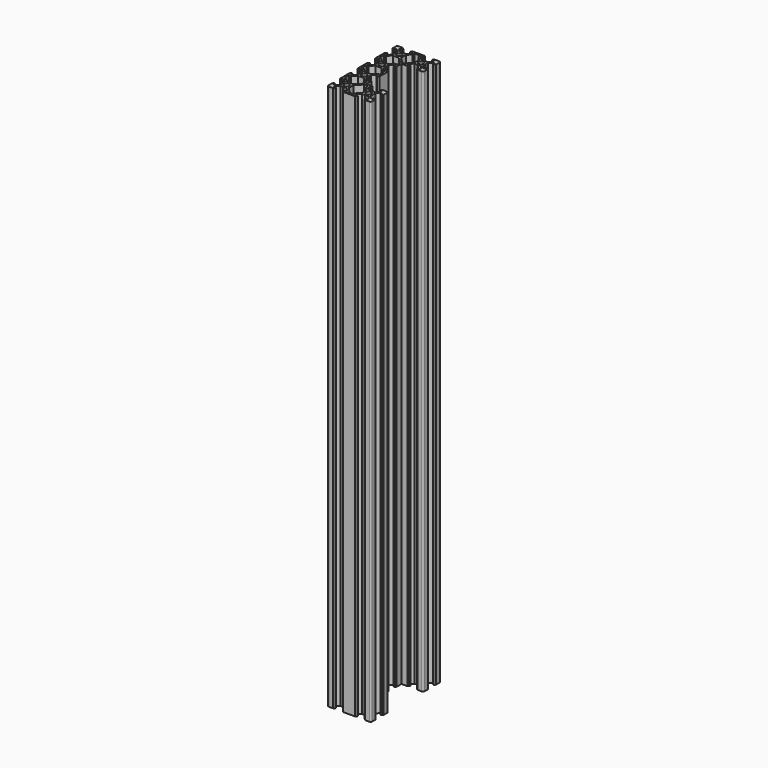
from build123d import *

# Parameters (mm, degrees)
F0_R     = 2.30002
F0_R_2   = 2.300022
F0_R_3   = 2.300012
F1_DEPTH = 500


with BuildPart() as f1:
    # F0 (on Top) → F1 (new body)
    with BuildSketch(Plane.XY):
        with BuildLine():
            Line((-16.476643, -40), (-12.556643, -40))
            Line((-12.556643, -40), (-11.371643, -38.815))
            Line((-11.371643, -38.815), (-11.371643, -38.2))
            Line((-11.371643, -38.2), (-13.476643, -38.2))
            Line((-13.476643, -38.2), (-13.476643, -36.56066))
            Line((-13.476643, -36.56066), (-10.815983, -33.9))
            Line((-10.815983, -33.9), (-8.186643, -33.9))
            Line((-8.186643, -33.9), (-7.976643, -33.69))
            Line((-7.976643, -33.69), (-7.766643, -33.9))
            Line((-7.766643, -33.9), (-5.137304, -33.9))
            Line((-5.137304, -33.9), (-2.476643, -36.56066))
            Line((-2.476643, -36.56066), (-2.476643, -38.2))
            Line((-2.476643, -38.2), (-4.581643, -38.2))
            Line((-4.581643, -38.2), (-4.581643, -38.815))
            Line((-4.581643, -38.815), (-3.396643, -40))
            Line((-3.396643, -40), (7.443357, -40))
            Line((7.443357, -40), (8.628357, -38.815))
            Line((8.628357, -38.815), (8.628357, -38.2))
            Line((8.628357, -38.2), (6.523357, -38.2))
            Line((6.523357, -38.2), (6.523357, -36.56066))
            Line((6.523357, -36.56066), (9.184017, -33.9))
            Line((9.184017, -33.9), (11.813357, -33.9))
            Line((11.813357, -33.9), (12.023357, -33.69))
            Line((12.023357, -33.69), (12.233357, -33.9))
            Line((12.233357, -33.9), (14.862696, -33.9))
            Line((14.862696, -33.9), (17.523357, -36.56066))
            Line((17.523357, -36.56066), (17.523357, -38.2))
            Line((17.523357, -38.2), (15.418357, -38.2))
            Line((15.418357, -38.2), (15.418357, -38.815))
            Line((15.418357, -38.815), (16.603357, -40))
            Line((16.603357, -40), (20.523357, -40))
            ThreePointArc((20.523357, -40), (21.584017, -39.56066), (22.023357, -38.5))
            Line((22.023357, -38.5), (22.023357, -34.58))
            Line((22.023357, -34.58), (20.838357, -33.395))
            Line((20.838357, -33.395), (20.223357, -33.395))
            Line((20.223357, -33.395), (20.223357, -35.5))
            Line((20.223357, -35.5), (18.584017, -35.5))
            Line((18.584017, -35.5), (15.923357, -32.83934))
            Line((15.923357, -32.83934), (15.923357, -30.21))
            Line((15.923357, -30.21), (15.713357, -30))
            Line((15.713357, -30), (15.923357, -29.79))
            Line((15.923357, -29.79), (15.923357, -27.16066))
            Line((15.923357, -27.16066), (18.584017, -24.5))
            Line((18.584017, -24.5), (20.223357, -24.5))
            Line((20.223357, -24.5), (20.223357, -26.605))
            Line((20.223357, -26.605), (20.838357, -26.605))
            Line((20.838357, -26.605), (22.023357, -25.42))
            Line((22.023357, -25.42), (22.023357, -21.5))
            ThreePointArc((22.023357, -21.5), (21.584017, -20.43934), (20.523357, -20))
            Line((20.523357, -20), (16.603357, -20))
            Line((16.603357, -20), (15.418357, -21.185))
            Line((15.418357, -21.185), (15.418357, -21.8))
            Line((15.418357, -21.8), (17.523357, -21.8))
            Line((17.523357, -21.8), (17.523357, -23.43934))
            Line((17.523357, -23.43934), (14.862696, -26.1))
            Line((14.862696, -26.1), (12.233357, -26.1))
            Line((12.233357, -26.1), (12.023357, -26.31))
            Line((12.023357, -26.31), (11.813357, -26.1))
            Line((11.813357, -26.1), (9.184017, -26.1))
            Line((9.184017, -26.1), (6.523357, -23.43934))
            Line((6.523357, -23.43934), (6.523357, -21.8))
            Line((6.523357, -21.8), (8.628357, -21.8))
            Line((8.628357, -21.8), (8.628357, -21.185))
            Line((8.628357, -21.185), (7.443357, -20))
            Line((7.443357, -20), (2.023357, -20))
            Line((2.023357, -20), (2.023357, -14.58))
            Line((2.023357, -14.58), (0.838357, -13.395))
            Line((0.838357, -13.395), (0.223357, -13.395))
            Line((0.223357, -13.395), (0.223357, -15.5))
            Line((0.223357, -15.5), (-1.415983, -15.5))
            Line((-1.415983, -15.5), (-4.076643, -12.83934))
            Line((-4.076643, -12.83934), (-4.076643, -10.21))
            Line((-4.076643, -10.21), (-4.286643, -10))
            Line((-4.286643, -10), (-4.076643, -9.79))
            Line((-4.076643, -9.79), (-4.076643, -7.16066))
            Line((-4.076643, -7.16066), (-1.415983, -4.5))
            Line((-1.415983, -4.5), (0.223357, -4.5))
            Line((0.223357, -4.5), (0.223357, -6.605))
            Line((0.223357, -6.605), (0.838357, -6.605))
            Line((0.838357, -6.605), (2.023357, -5.42))
            Line((2.023357, -5.42), (2.023357, 0))
            Line((2.023357, 0), (2.023357, 5.42))
            Line((2.023357, 5.42), (0.838357, 6.605))
            Line((0.838357, 6.605), (0.223357, 6.605))
            Line((0.223357, 6.605), (0.223357, 4.5))
            Line((0.223357, 4.5), (-1.415983, 4.5))
            Line((-1.415983, 4.5), (-4.076643, 7.16066))
            Line((-4.076643, 7.16066), (-4.076643, 9.79))
            Line((-4.076643, 9.79), (-4.286643, 10))
            Line((-4.286643, 10), (-4.076643, 10.21))
            Line((-4.076643, 10.21), (-4.076643, 12.83934))
            Line((-4.076643, 12.83934), (-1.415983, 15.5))
            Line((-1.415983, 15.5), (0.223357, 15.5))
            Line((0.223357, 15.5), (0.223357, 13.395))
            Line((0.223357, 13.395), (0.838357, 13.395))
            Line((0.838357, 13.395), (2.023357, 14.58))
            Line((2.023357, 14.58), (2.023357, 20))
            Line((2.023357, 20), (7.443357, 20))
            Line((7.443357, 20), (8.628357, 21.185))
            Line((8.628357, 21.185), (8.628357, 21.8))
            Line((8.628357, 21.8), (6.523357, 21.8))
            Line((6.523357, 21.8), (6.523357, 23.43934))
            Line((6.523357, 23.43934), (9.184017, 26.1))
            Line((9.184017, 26.1), (11.813357, 26.1))
            Line((11.813357, 26.1), (12.023357, 26.31))
            Line((12.023357, 26.31), (12.233357, 26.1))
            Line((12.233357, 26.1), (14.862696, 26.1))
            Line((14.862696, 26.1), (17.523357, 23.43934))
            Line((17.523357, 23.43934), (17.523357, 21.8))
            Line((17.523357, 21.8), (15.418357, 21.8))
            Line((15.418357, 21.8), (15.418357, 21.185))
            Line((15.418357, 21.185), (16.603357, 20))
            Line((16.603357, 20), (20.523357, 20))
            ThreePointArc((20.523357, 20), (21.584017, 20.43934), (22.023357, 21.5))
            Line((22.023357, 21.5), (22.023357, 25.42))
            Line((22.023357, 25.42), (20.838357, 26.605))
            Line((20.838357, 26.605), (20.223357, 26.605))
            Line((20.223357, 26.605), (20.223357, 24.5))
            Line((20.223357, 24.5), (18.584017, 24.5))
            Line((18.584017, 24.5), (15.923357, 27.16066))
            Line((15.923357, 27.16066), (15.923357, 29.79))
            Line((15.923357, 29.79), (15.713357, 30))
            Line((15.713357, 30), (15.923357, 30.21))
            Line((15.923357, 30.21), (15.923357, 32.83934))
            Line((15.923357, 32.83934), (18.584017, 35.5))
            Line((18.584017, 35.5), (20.223357, 35.5))
            Line((20.223357, 35.5), (20.223357, 33.395))
            Line((20.223357, 33.395), (20.838357, 33.395))
            Line((20.838357, 33.395), (22.023357, 34.58))
            Line((22.023357, 34.58), (22.023357, 38.5))
            ThreePointArc((22.023357, 38.5), (21.584017, 39.56066), (20.523357, 40))
            Line((20.523357, 40), (16.603357, 40))
            Line((16.603357, 40), (15.418357, 38.815))
            Line((15.418357, 38.815), (15.418357, 38.2))
            Line((15.418357, 38.2), (17.523357, 38.2))
            Line((17.523357, 38.2), (17.523357, 36.56066))
            Line((17.523357, 36.56066), (14.862696, 33.9))
            Line((14.862696, 33.9), (12.233357, 33.9))
            Line((12.233357, 33.9), (12.023357, 33.69))
            Line((12.023357, 33.69), (11.813357, 33.9))
            Line((11.813357, 33.9), (9.184017, 33.9))
            Line((9.184017, 33.9), (6.523357, 36.56066))
            Line((6.523357, 36.56066), (6.523357, 38.2))
            Line((6.523357, 38.2), (8.628357, 38.2))
            Line((8.628357, 38.2), (8.628357, 38.815))
            Line((8.628357, 38.815), (7.443357, 40))
            Line((7.443357, 40), (-3.396643, 40))
            Line((-3.396643, 40), (-4.581643, 38.815))
            Line((-4.581643, 38.815), (-4.581643, 38.2))
            Line((-4.581643, 38.2), (-2.476643, 38.2))
            Line((-2.476643, 38.2), (-2.476643, 36.56066))
            Line((-2.476643, 36.56066), (-5.137304, 33.9))
            Line((-5.137304, 33.9), (-7.766643, 33.9))
            Line((-7.766643, 33.9), (-7.976643, 33.69))
            Line((-7.976643, 33.69), (-8.186643, 33.9))
            Line((-8.186643, 33.9), (-10.815983, 33.9))
            Line((-10.815983, 33.9), (-13.476643, 36.56066))
            Line((-13.476643, 36.56066), (-13.476643, 38.2))
            Line((-13.476643, 38.2), (-11.371643, 38.2))
            Line((-11.371643, 38.2), (-11.371643, 38.815))
            Line((-11.371643, 38.815), (-12.556643, 40))
            Line((-12.556643, 40), (-16.476643, 40))
            ThreePointArc((-16.476643, 40), (-17.537304, 39.56066), (-17.976643, 38.5))
            Line((-17.976643, 38.5), (-17.976643, 34.58))
            Line((-17.976643, 34.58), (-16.791643, 33.395))
            Line((-16.791643, 33.395), (-16.176643, 33.395))
            Line((-16.176643, 33.395), (-16.176643, 35.5))
            Line((-16.176643, 35.5), (-14.537304, 35.5))
            Line((-14.537304, 35.5), (-11.876643, 32.83934))
            Line((-11.876643, 32.83934), (-11.876643, 30.21))
            Line((-11.876643, 30.21), (-11.666643, 30))
            Line((-11.666643, 30), (-11.876643, 29.79))
            Line((-11.876643, 29.79), (-11.876643, 27.16066))
            Line((-11.876643, 27.16066), (-14.537304, 24.5))
            Line((-14.537304, 24.5), (-16.176643, 24.5))
            Line((-16.176643, 24.5), (-16.176643, 26.605))
            Line((-16.176643, 26.605), (-16.791643, 26.605))
            Line((-16.791643, 26.605), (-17.976643, 25.42))
            Line((-17.976643, 25.42), (-17.976643, 14.58))
            Line((-17.976643, 14.58), (-16.791643, 13.395))
            Line((-16.791643, 13.395), (-16.176643, 13.395))
            Line((-16.176643, 13.395), (-16.176643, 15.5))
            Line((-16.176643, 15.5), (-14.537304, 15.5))
            Line((-14.537304, 15.5), (-11.876643, 12.83934))
            Line((-11.876643, 12.83934), (-11.876643, 10.21))
            Line((-11.876643, 10.21), (-11.666643, 10))
            Line((-11.666643, 10), (-11.876643, 9.79))
            Line((-11.876643, 9.79), (-11.876643, 7.16066))
            Line((-11.876643, 7.16066), (-14.537304, 4.5))
            Line((-14.537304, 4.5), (-16.176643, 4.5))
            Line((-16.176643, 4.5), (-16.176643, 6.605))
            Line((-16.176643, 6.605), (-16.791643, 6.605))
            Line((-16.791643, 6.605), (-17.976643, 5.42))
            Line((-17.976643, 5.42), (-17.976643, 0))
            Line((-17.976643, 0), (-17.976643, -5.42))
            Line((-17.976643, -5.42), (-16.791643, -6.605))
            Line((-16.791643, -6.605), (-16.176643, -6.605))
            Line((-16.176643, -6.605), (-16.176643, -4.5))
            Line((-16.176643, -4.5), (-14.537304, -4.5))
            Line((-14.537304, -4.5), (-11.876643, -7.16066))
            Line((-11.876643, -7.16066), (-11.876643, -9.79))
            Line((-11.876643, -9.79), (-11.666643, -10))
            Line((-11.666643, -10), (-11.876643, -10.21))
            Line((-11.876643, -10.21), (-11.876643, -12.83934))
            Line((-11.876643, -12.83934), (-14.537304, -15.5))
            Line((-14.537304, -15.5), (-16.176643, -15.5))
            Line((-16.176643, -15.5), (-16.176643, -13.395))
            Line((-16.176643, -13.395), (-16.791643, -13.395))
            Line((-16.791643, -13.395), (-17.976643, -14.58))
            Line((-17.976643, -14.58), (-17.976643, -25.42))
            Line((-17.976643, -25.42), (-16.791643, -26.605))
            Line((-16.791643, -26.605), (-16.176643, -26.605))
            Line((-16.176643, -26.605), (-16.176643, -24.5))
            Line((-16.176643, -24.5), (-14.537304, -24.5))
            Line((-14.537304, -24.5), (-11.876643, -27.16066))
            Line((-11.876643, -27.16066), (-11.876643, -29.79))
            Line((-11.876643, -29.79), (-11.666643, -30))
            Line((-11.666643, -30), (-11.876643, -30.21))
            Line((-11.876643, -30.21), (-11.876643, -32.83934))
            Line((-11.876643, -32.83934), (-14.537304, -35.5))
            Line((-14.537304, -35.5), (-16.176643, -35.5))
            Line((-16.176643, -35.5), (-16.176643, -33.395))
            Line((-16.176643, -33.395), (-16.791643, -33.395))
            Line((-16.791643, -33.395), (-17.976643, -34.58))
            Line((-17.976643, -34.58), (-17.976643, -38.5))
            ThreePointArc((-17.976643, -38.5), (-17.537304, -39.56066), (-16.476643, -40))
        make_face()
        with Locations((-7.976651, -29.999986)):
            Circle(F0_R, mode=Mode.SUBTRACT)
        Polygon((-5.137304, -26.1), (-10.815983, -26.1), (-14.215983, -22.7), (-16.176643, -22.7), (-16.176643, -17.3), (-14.215983, -17.3), (-10.815983, -13.9), (-5.137304, -13.9), (-1.737304, -17.3), (0.223357, -17.3), (0.223357, -20.73934), align=None, mode=Mode.SUBTRACT)
        with Locations((-7.976635, -9.999997)):
            Circle(F0_R_2, mode=Mode.SUBTRACT)
        Polygon((4.723357, -38.2), (-0.676643, -38.2), (-0.676643, -36.23934), (-4.076643, -32.83934), (-4.076643, -27.16066), (1.284017, -21.8), (4.723357, -21.8), (4.723357, -23.76066), (8.123357, -27.16066), (8.123357, -32.83934), (4.723357, -36.23934), align=None, mode=Mode.SUBTRACT)
        with Locations((12.023366, -30.000018)):
            Circle(F0_R_3, mode=Mode.SUBTRACT)
        Polygon((-16.176643, -2.7), (-16.176643, 0), (-16.176643, 2.7), (-14.215983, 2.7), (-10.815983, 6.1), (-5.137304, 6.1), (-1.737304, 2.7), (0.223357, 2.7), (0.223357, 0), (0.223357, -2.7), (-1.737304, -2.7), (-5.137304, -6.1), (-10.815983, -6.1), (-14.215983, -2.7), align=None, mode=Mode.SUBTRACT)
        with Locations((-7.976635, 9.999997)):
            Circle(F0_R_2, mode=Mode.SUBTRACT)
        with Locations((-7.976651, 29.999986)):
            Circle(F0_R, mode=Mode.SUBTRACT)
        Polygon((-16.176643, 17.3), (-16.176643, 22.7), (-14.215983, 22.7), (-10.815983, 26.1), (-5.137304, 26.1), (0.223357, 20.73934), (0.223357, 17.3), (-1.737304, 17.3), (-5.137304, 13.9), (-10.815983, 13.9), (-14.215983, 17.3), align=None, mode=Mode.SUBTRACT)
        Polygon((8.123357, 27.16066), (4.723357, 23.76066), (4.723357, 21.8), (1.284017, 21.8), (-4.076643, 27.16066), (-4.076643, 32.83934), (-0.676643, 36.23934), (-0.676643, 38.2), (4.723357, 38.2), (4.723357, 36.23934), (8.123357, 32.83934), align=None, mode=Mode.SUBTRACT)
        with Locations((12.023366, 30.000018)):
            Circle(F0_R_3, mode=Mode.SUBTRACT)
    extrude(amount=F1_DEPTH)


solid = f1.part
